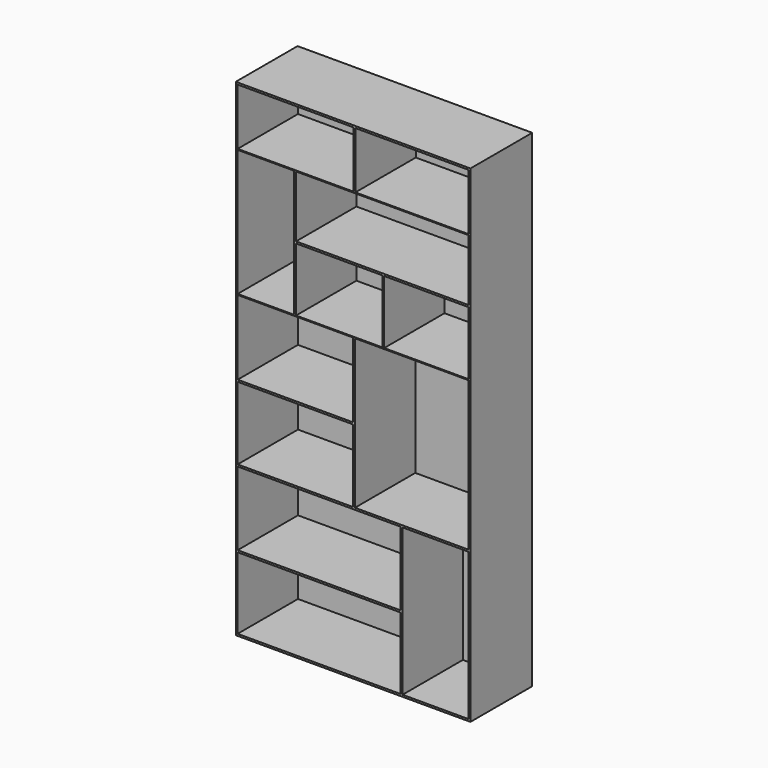
from build123d import *

# Parameters (mm, degrees)
F0_W      = 1245
F0_H      = 2585
F1_DEPTH  = 410
F2_T      = -10
F3_W      = 1225
F3_H      = 5
F4_DEPTH  = 400
F5_W      = 10
F5_H      = 672.5
F6_DEPTH  = 400
F7_W      = 915
F7_H      = 10
F8_DEPTH  = 400
F9_W      = 10
F9_H      = 300
F10_DEPTH = 400
F11_W     = 10
F11_H     = 336.25
F12_DEPTH = 400
F13_W     = 1225
F13_H     = 10
F14_DEPTH = 400
F15_W     = 10
F15_H     = 791.25
F16_DEPTH = 400
F17_W     = 612.5
F17_H     = 10
F18_DEPTH = 400
F19_W     = 10
F19_H     = 781.25
F20_DEPTH = 400
F21_W     = 865
F21_H     = 10
F22_DEPTH = 400


with BuildPart() as f1:
    # F0 (on Front) → F1 (new body)
    with BuildSketch(Plane.XZ):
        with Locations((622.5, 1292.5)):
            Rectangle(F0_W, F0_H)
    extrude(amount=F1_DEPTH)

    # F2
    f2_openings = [f1.faces().sort_by_distance(p)[0] for p in [
        (622.5, -410, 1292.5),
    ]]
    offset(amount=F2_T, openings=f2_openings)

    # F3 (on face) → F4 (join)
    with BuildSketch(Plane.XZ.offset(10)):
        with Locations((622.5, 2272.5)):
            Rectangle(F3_W, F3_H)
        with Locations((622.5, 1595)):
            Rectangle(F3_W, F3_H)
    extrude(amount=F4_DEPTH)

    # F5 (on face) → F6 (join)
    with BuildSketch(Plane.XZ.offset(10)):
        with Locations((315, 1933.75)):
            Rectangle(F5_W, F5_H)
    extrude(amount=F6_DEPTH)

    # F7 (on face) → F8 (join)
    with BuildSketch(Plane.XZ.offset(10)):
        with Locations((777.5, 1938.75)):
            Rectangle(F7_W, F7_H)
    extrude(amount=F8_DEPTH)

    # F9 (on face) → F10 (join)
    with BuildSketch(Plane.XZ.offset(10)):
        with Locations((630, 2425)):
            Rectangle(F9_W, F9_H)
    extrude(amount=F10_DEPTH)

    # F11 (on face) → F12 (join)
    with BuildSketch(Plane.XZ.offset(10)):
        with Locations((782.5, 1765.625)):
            Rectangle(F11_W, F11_H)
    extrude(amount=F12_DEPTH)

    # F13 (on face) → F14 (join)
    with BuildSketch(Plane.XZ.offset(10)):
        with Locations((622.5, 796.25)):
            Rectangle(F13_W, F13_H)
    extrude(amount=F14_DEPTH)

    # F15 (on face) → F16 (join)
    with BuildSketch(Plane.XZ.offset(10)):
        with Locations((627.5, 1196.875)):
            Rectangle(F15_W, F15_H)
    extrude(amount=F16_DEPTH)

    # F17 (on face) → F18 (join)
    with BuildSketch(Plane.XZ.offset(10)):
        with Locations((316.25, 1191.875)):
            Rectangle(F17_W, F17_H)
    extrude(amount=F18_DEPTH)

    # F19 (on face) → F20 (join)
    with BuildSketch(Plane.XZ.offset(10)):
        with Locations((880, 400.625)):
            Rectangle(F19_W, F19_H)
    extrude(amount=F20_DEPTH)

    # F21 (on face) → F22 (join)
    with BuildSketch(Plane.XZ.offset(10)):
        with Locations((442.5, 395.625)):
            Rectangle(F21_W, F21_H)
    extrude(amount=F22_DEPTH)


solid = f1.part
